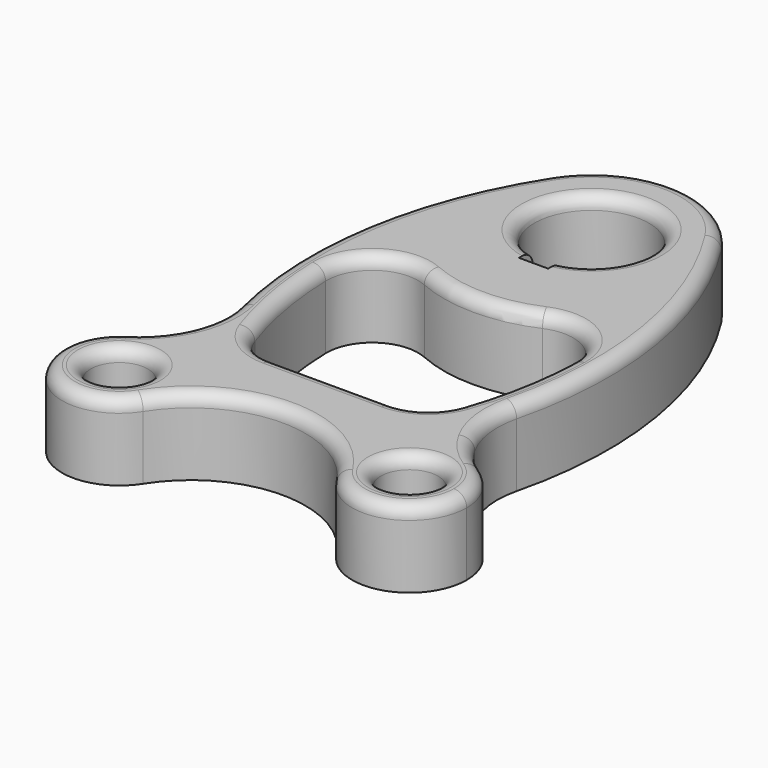
from build123d import *

# Parameters (mm, degrees)
F0_R     = 11.25
F1_DEPTH = 30
F2_R     = 5


with BuildPart() as f1:
    # F0 (on Top) → F1 (new body)
    with BuildSketch(Plane.XY):
        with BuildLine():
            ThreePointArc((33.662522, 142.495305), (0, 160.888948), (-33.662522, 142.495305))
            ThreePointArc((-33.662522, 142.495305), (-11.258311, 82.506004), (40, 120.888948))
            ThreePointArc((40, 120.888948), (38.382945, 132.147259), (33.662522, 142.495305))
        make_face()
        with BuildLine():
            Line((5.75, 92.388948), (-5.75, 92.388948))
            Line((-5.75, 92.388948), (-5.75, 99.136075))
            ThreePointArc((-5.75, 99.136075), (0, 143.388948), (5.75, 99.136075))
            Line((5.75, 99.136075), (5.75, 92.388948))
        make_face(mode=Mode.SUBTRACT)
        with BuildLine():
            ThreePointArc((-69.16597, -20.906002), (-46.217707, -20.084989), (-34.5, -39.833209))
            ThreePointArc((-34.5, -39.833209), (-35.39271, -46.108159), (-38, -51.885179))
            ThreePointArc((-38, -51.885179), (0, -30.989121), (38, -51.885179))
            ThreePointArc((38, -51.885179), (41.13799, -23.875557), (69.16597, -20.906002))
            ThreePointArc((69.16597, -20.906002), (62.702937, -15.513041), (57.762864, -8.697581))
            ThreePointArc((57.762864, -8.697581), (53.836003, 3.295175), (54.553477, 15.894051))
            ThreePointArc((54.553477, 15.894051), (57.173326, 81.350637), (33.662522, 142.495305))
            ThreePointArc((33.662522, 142.495305), (38.382945, 132.147259), (40, 120.888948))
            ThreePointArc((40, 120.888948), (-11.258311, 82.506004), (-33.662522, 142.495305))
            ThreePointArc((-33.662522, 142.495305), (-57.173326, 81.350637), (-54.553477, 15.894051))
            ThreePointArc((-54.553477, 15.894051), (-53.689504, 4.619429), (-56.570806, -6.314996))
            ThreePointArc((-56.570806, -6.314996), (-61.812749, -14.521742), (-69.16597, -20.906002))
        make_face()
        with BuildLine():
            ThreePointArc((-48.438195, 50.751474), (-40.508454, 66.177713), (-23.234494, 67.746138))
            ThreePointArc((-23.234494, 67.746138), (0, 62.888948), (23.234494, 67.746138))
            ThreePointArc((23.234494, 67.746138), (40.508454, 66.177713), (48.438195, 50.751474))
            ThreePointArc((48.438195, 50.751474), (46.069608, 27.984436), (40.291387, 5.835837))
            ThreePointArc((40.291387, 5.835837), (33.725662, -2.965678), (23.268249, -6.314996))
            Line((23.268249, -6.314996), (-23.268249, -6.314996))
            ThreePointArc((-23.268249, -6.314996), (-33.725662, -2.965678), (-40.291387, 5.835837))
            ThreePointArc((-40.291387, 5.835837), (-46.069608, 27.984436), (-48.438195, 50.751474))
        make_face(mode=Mode.SUBTRACT)
        with BuildLine():
            ThreePointArc((-38, -51.885179), (-35.39271, -46.108159), (-34.5, -39.833209))
            ThreePointArc((-34.5, -39.833209), (-46.217707, -20.084989), (-69.16597, -20.906002))
            ThreePointArc((-69.16597, -20.906002), (-72.86201, -55.79086), (-38, -51.885179))
        make_face()
        with Locations((-57, -39.833209)):
            Circle(F0_R, mode=Mode.SUBTRACT)
        with BuildLine():
            ThreePointArc((69.16597, -20.906002), (41.13799, -23.875557), (38, -51.885179))
            ThreePointArc((38, -51.885179), (63.27495, -61.440499), (79.5, -39.833209))
            ThreePointArc((79.5, -39.833209), (76.748219, -29.050916), (69.16597, -20.906002))
        make_face()
        with Locations((57, -39.833209)):
            Circle(F0_R, mode=Mode.SUBTRACT)
    extrude(amount=F1_DEPTH)

    # F2
    f2_edges = [f1.edges().sort_by_distance(p)[0] for p in [
        (0, 143.388948, 30),
        (0, 160.888948, 30),
        (-57.173326, 81.350637, 30),
        (-55.950158, -4.852534, 30),
        (-72.86201, -55.79086, 30),
        (0, -30.989121, 30),
        (63.27495, -61.440499, 30),
        (76.748219, -29.050916, 30),
        (55.950158, -4.852534, 30),
        (57.173326, 81.350637, 30),
        (0, 62.888948, 30),
        (40.508454, 66.177713, 30),
        (46.069608, 27.984436, 30),
        (33.725662, -2.965678, 30),
        (0, -6.314996, 30),
        (-33.725662, -2.965678, 30),
        (-46.069608, 27.984436, 30),
        (-40.508454, 66.177713, 30),
        (45.75, -39.833209, 30),
        (-68.25, -39.833209, 30),
    ]]
    fillet(f2_edges, radius=F2_R)


solid = f1.part
